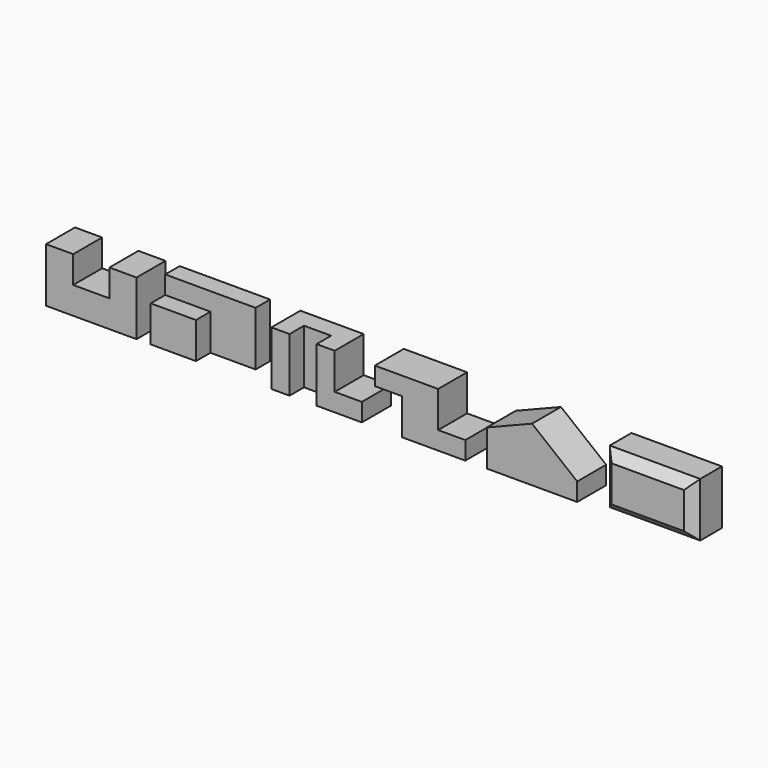
from build123d import *

# Parameters (mm, degrees)
F1_DEPTH  = 101.6
F3_DEPTH  = 152.4
F4_DEPTH  = 25.4
F5_W      = 127
F5_H      = 50.8
F6_DEPTH  = 25.4
F7_DEPTH  = 25.4
F9_DEPTH  = 101.6
F10_W     = 76.2
F10_H     = 152.4
F11_DEPTH = 50.8
F13_DEPTH = 101.6
F15_DEPTH = 101.6
F16_W     = 203.2
F16_H     = 101.6
F17_DEPTH = 101.6
F18_SIZE  = 25.4


with BuildPart() as f1:
    # F0 (on Front) → F1 (new body)
    with BuildSketch(Plane.XZ):
        Polygon((-127, 0), (0, 0), (127, 0), (127, 152.4), (50.8, 152.4), (50.8, 76.2), (-50.8, 76.2), (-50.8, 152.4), (-127, 152.4), align=None)
    extrude(amount=-F1_DEPTH)


with BuildPart() as f3:
    # F2 (on Top) → F3 (new body)
    with BuildSketch(Plane.XY):
        Polygon((166.8223488978, 101.6), (166.8223488978, 0), (293.8223488978, 0), (293.8223488978, 50.8), (420.8223488978, 50.8), (420.8223488978, 101.6), align=None)
    extrude(amount=F3_DEPTH)

    # F4 (cut): a face of the model
    f4_faces = [f3.faces().sort_by_distance(p)[0] for p in [
        (230.3223488978, 0, 76.2),
    ]]
    extrude(f4_faces, amount=-F4_DEPTH, mode=Mode.SUBTRACT)

    # F5 (on face) → F6 (cut)
    with BuildSketch(Plane.XZ.offset(-25.4)):
        with Locations((230.3223488978, 127)):
            Rectangle(F5_W, F5_H)
    extrude(amount=-F6_DEPTH, mode=Mode.SUBTRACT)

    # F7 (add): a face of the model
    f7_faces = [f3.faces().sort_by_distance(p)[0] for p in [
        (230.3223488978, 25.4, 50.8),
    ]]
    extrude(f7_faces, amount=F7_DEPTH)


with BuildPart() as f9:
    # F8 (on Front) → F9 (new body)
    with BuildSketch(Plane.XZ):
        Polygon((505.7421922684, 152.4), (505.7421922684, 0), (759.7421922684, 0), (759.7421922684, 50.8), (683.5421922684, 50.8), (683.5421922684, 152.4), align=None)
    extrude(amount=-F9_DEPTH)

    # F10 (on face) → F11 (cut)
    with BuildSketch(Plane.XZ):
        with Locations((594.6421922684, 76.2)):
            Rectangle(F10_W, F10_H)
    extrude(amount=-F11_DEPTH, mode=Mode.SUBTRACT)


with BuildPart() as f13:
    # F12 (on Front) → F13 (new body)
    with BuildSketch(Plane.XZ):
        Polygon((973.8938811302, 152.4), (796.0938811302, 152.4), (796.0938811302, 101.6), (872.2938811302, 101.6), (872.2938811302, 0), (1050.0938811302, 0), (1050.0938811302, 50.8), (973.8938811302, 50.8), align=None)
    extrude(amount=-F13_DEPTH)


with BuildPart() as f15:
    # F14 (on Front) → F15 (new body)
    with BuildSketch(Plane.XZ):
        Polygon((1110.5307340622, 101.6), (1110.5307340622, 0), (1237.5307340622, 0), (1364.5307340622, 0), (1364.5307340622, 50.8), (1237.5307340622, 152.4), align=None)
        Polygon((1110.5307340622, 101.6), (1110.5307340622, 0), (1237.5307340622, 0), (1364.5307340622, 0), (1364.5307340622, 50.8), (1237.5307340622, 152.4), align=None)
    extrude(amount=-F15_DEPTH)


with BuildPart() as f17:
    # F16 (on Front) → F17 (new body)
    with BuildSketch(Plane.XZ):
        Polygon((1435.4985952377, 152.4), (1435.4985952377, 0), (1460.8985952377, 0), (1689.4985952377, 0), (1689.4985952377, 152.4), align=None)
        with Locations((1562.4985952377, 76.2)):
            Rectangle(F16_W, F16_H, mode=Mode.SUBTRACT)
        with Locations((1562.4985952377, 76.2)):
            Rectangle(F16_W, F16_H)
    extrude(amount=-F17_DEPTH)

    # F18
    f18_edges = [f17.edges().sort_by_distance(p)[0] for p in [
        (1435.498595, 0, 76.2),
        (1562.498595, 0, 0),
        (1689.498595, 0, 76.2),
        (1562.498595, 0, 152.4),
    ]]
    chamfer(f18_edges, length=F18_SIZE)


solid = Compound([f1.part, f3.part, f9.part, f13.part, f15.part, f17.part])
